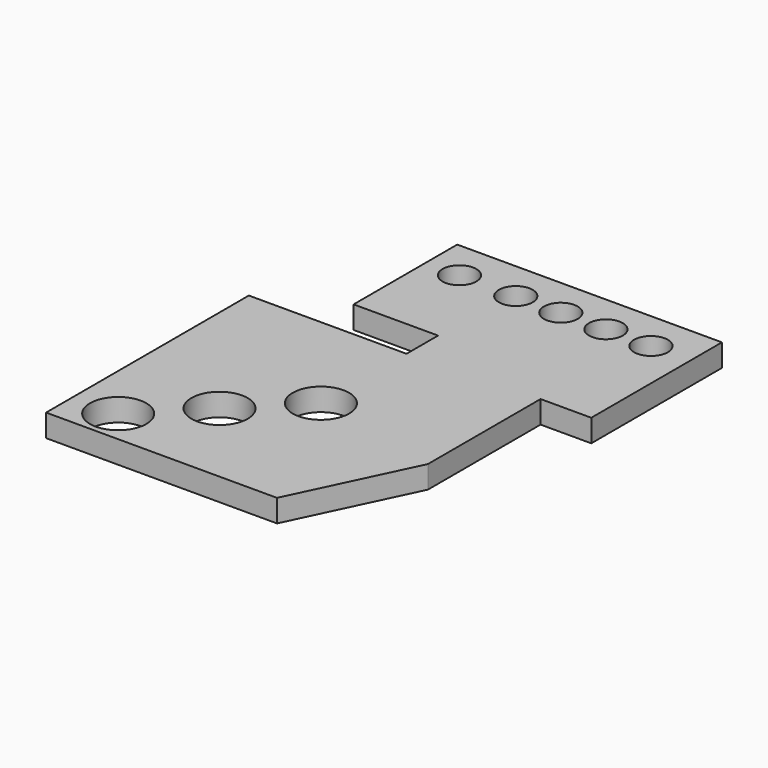
from build123d import *

# Parameters (mm, degrees)
F0_R     = 31.75
F0_R_2   = 19.05
F1_DEPTH = 25.4


with BuildPart() as f1:
    # F0 (on Top) → F1 (new body)
    with BuildSketch(Plane.XY):
        Polygon((-159.093333, 186.657196), (-159.093333, -99.092804), (101.256667, -99.092804), (164.756667, 34.257196), (164.756667, 193.007196), (221.906667, 193.007196), (221.906667, 377.157196), (177.456667, 377.157196), (-76.543333, 377.157196), (-76.543333, 231.107196), (18.706667, 231.107196), (18.706667, 186.657196), align=None)
        with Locations((-108.293333, -60.992804)):
            Circle(F0_R, mode=Mode.SUBTRACT)
        with Locations((-44.793333, 2.507196)):
            Circle(F0_R, mode=Mode.SUBTRACT)
        with Locations((18.706667, 66.007196)):
            Circle(F0_R, mode=Mode.SUBTRACT)
        with Locations((-38.443333, 332.707196)):
            Circle(F0_R_2, mode=Mode.SUBTRACT)
        with Locations((25.056667, 332.707196)):
            Circle(F0_R_2, mode=Mode.SUBTRACT)
        with Locations((75.856667, 332.707196)):
            Circle(F0_R_2, mode=Mode.SUBTRACT)
        with Locations((126.656667, 332.707196)):
            Circle(F0_R_2, mode=Mode.SUBTRACT)
        with Locations((177.456667, 332.707196)):
            Circle(F0_R_2, mode=Mode.SUBTRACT)
    extrude(amount=F1_DEPTH)


solid = f1.part
